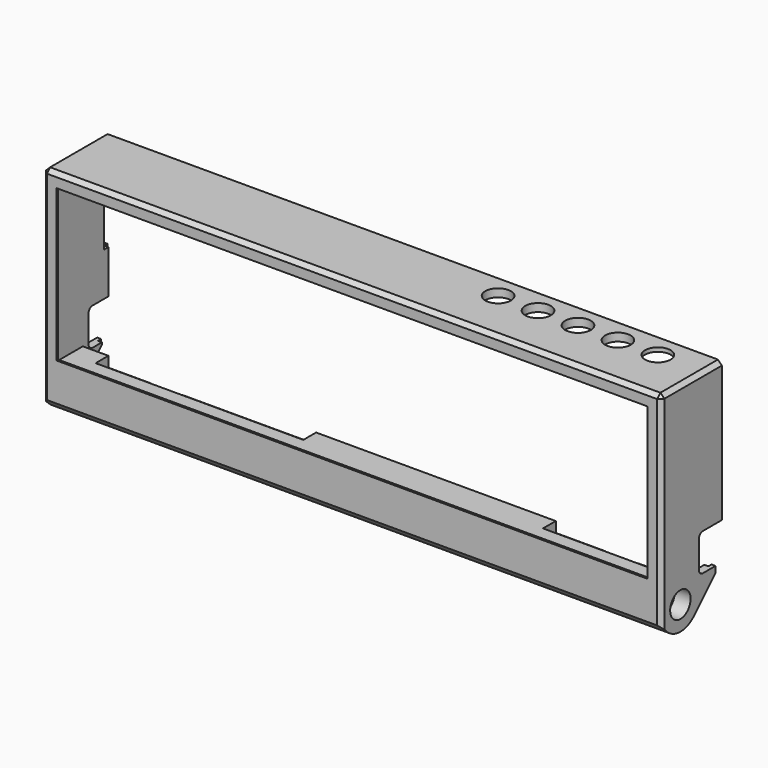
from build123d import *

# Parameters (mm, degrees)
PAD_DEPTH            = 77.4
SKETCH002_W          = 40
SKETCH002_H          = 150
POCKET_DEPTH         = 18.501
SKETCH005_W          = 38
SKETCH005_H          = 148
POCKET003_DEPTH      = 0.501
SKETCH021_W          = 40.8
SKETCH021_H          = 150.8
POCKET018_DEPTH      = 18.501
SKETCH003_W          = 4
SKETCH003_H          = 8
SKETCH003_H_2        = 10
SKETCH003_H_3        = 36
SKETCH003_W_2        = 1.4
POCKET001_DEPTH      = 13.001
CHAMFER_1_SIZE2      = 1
CHAMFER_1_SIZE       = 2
CHAMFER_2_SIZE2      = 1
CHAMFER_2_SIZE       = 2
CHAMFER_3_SIZE2      = 1
CHAMFER_3_SIZE       = 2
CHAMFER_4_SIZE2      = 1
CHAMFER_4_SIZE       = 2
SKETCH004_W          = 4.8
SKETCH004_H          = 150
POCKET002_DEPTH      = 9.001
SKETCH022_W          = 5.2
SKETCH022_H          = 150.8
POCKET019_DEPTH      = 9.001
POCKET009_DEPTH      = 8
SKETCH013_R          = 1.7
POCKET010_DEPTH      = 40
SKETCH014_R          = 3.2
POCKET011_DEPTH      = 4
SKETCH006_W          = 1
SKETCH006_H          = 16
POCKET004_DEPTH      = 17.1
SKETCH020_W          = 5
SKETCH020_H          = 3
POCKET017_DEPTH      = 0.2
POCKET005_DEPTH      = 77.401
POCKET005_DEPTH_BACK = 77.401
SKETCH016_W          = 5
SKETCH016_H          = 12
POCKET012_DEPTH      = 10
SKETCH008_W          = 40
SKETCH008_H          = 152.8
POCKET006_DEPTH      = 1.001
SKETCH023_W          = 30
SKETCH023_H          = 170
POCKET020_DEPTH      = 2
POCKET007_DEPTH      = 76.4
SKETCH010_R          = 3.2
POCKET008_DEPTH      = 2.401
CHAMFER001_SIZE      = 1
CHAMFER002_SIZE      = 0.5


with BuildPart() as part:
    # Sketch001 → Pad (new body, symmetric)
    with BuildSketch(Plane.YZ):
        with BuildLine():
            Line((19, -1.485281), (19, 42.4))
            Line((0, 42.4), (19, 42.4))
            Line((0, 42.4), (0, 0))
            Line((0, 0), (0, -8.485281))
            Line((0, -8.485281), (1.757359, -10.242641))
            ThreePointArc((1.757359, -10.242641), (6, -12), (10.242641, -10.242641))
            Line((10.242641, -10.242641), (19, -1.485281))
        make_face()
    extrude(amount=PAD_DEPTH, both=True)

    # Sketch002 (on Face3 of Pad) → Pocket (cut, through all)
    with BuildSketch(Plane(origin=(0, 0.5, 0), x_dir=(0, 0, -1), z_dir=(0, -1, 0))):
        with Locations((-20, 0)):
            Rectangle(SKETCH002_W, SKETCH002_H)
    extrude(amount=-POCKET_DEPTH, mode=Mode.SUBTRACT)

    # Sketch005 (on Face14 of Pocket) → Pocket003 (cut, through all)
    with BuildSketch(Plane.ZX.offset(0.5)):
        with Locations((20, 0)):
            Rectangle(SKETCH005_W, SKETCH005_H)
    extrude(amount=-POCKET003_DEPTH, mode=Mode.SUBTRACT)

    # Sketch021 (on Face14 of Pocket) → Pocket018 (cut, through all)
    with BuildSketch(Plane.ZX.offset(0.5)):
        with Locations((20, 0)):
            Rectangle(SKETCH021_W, SKETCH021_H)
    extrude(amount=POCKET018_DEPTH, mode=Mode.SUBTRACT)

    # Sketch003 (on Face3 of Pad) → Pocket001 (cut, through all)
    with BuildSketch(Plane(origin=(0, 6, 0), x_dir=(0, 0, -1), z_dir=(0, -1, 0))):
        with Locations((2, 65)):
            Rectangle(SKETCH003_W, SKETCH003_H)
        with Locations((2, 48)):
            Rectangle(SKETCH003_W, SKETCH003_H_2)
        with Locations((2, -35)):
            Rectangle(SKETCH003_W, SKETCH003_H_3)
        with Locations((2, -65)):
            Rectangle(SKETCH003_W, SKETCH003_H)
        with Locations((-40.7, 65)):
            Rectangle(SKETCH003_W_2, SKETCH003_H)
        with Locations((-40.7, -65)):
            Rectangle(SKETCH003_W_2, SKETCH003_H)
    extrude(amount=-POCKET001_DEPTH, mode=Mode.SUBTRACT)

    # Chamfer 1
    chamfer_1_edges = [part.edges().sort_by_distance(p)[0] for p in [
        (65, 6, -4),
    ]]
    chamfer_1_side = part.faces().sort_by_distance((65, 11.242641, -4))[0]
    chamfer(chamfer_1_edges, length=CHAMFER_1_SIZE, length2=CHAMFER_1_SIZE2, reference=chamfer_1_side)

    # Chamfer 2
    chamfer_2_edges = [part.edges().sort_by_distance(p)[0] for p in [
        (48, 6, -4),
    ]]
    chamfer_2_side = part.faces().sort_by_distance((48, 11.242641, -4))[0]
    chamfer(chamfer_2_edges, length=CHAMFER_2_SIZE, length2=CHAMFER_2_SIZE2, reference=chamfer_2_side)

    # Chamfer 3
    chamfer_3_edges = [part.edges().sort_by_distance(p)[0] for p in [
        (-35, 6, -4),
    ]]
    chamfer_3_side = part.faces().sort_by_distance((-35, 11.242641, -4))[0]
    chamfer(chamfer_3_edges, length=CHAMFER_3_SIZE, length2=CHAMFER_3_SIZE2, reference=chamfer_3_side)

    # Chamfer 4
    chamfer_4_edges = [part.edges().sort_by_distance(p)[0] for p in [
        (-65, 6, -4),
    ]]
    chamfer_4_side = part.faces().sort_by_distance((-65, 11.242641, -4))[0]
    chamfer(chamfer_4_edges, length=CHAMFER_4_SIZE, length2=CHAMFER_4_SIZE2, reference=chamfer_4_side)

    # Sketch004 (on Face3 of Pad) → Pocket002 (cut, through all)
    with BuildSketch(Plane(origin=(0, 10, 0), x_dir=(0, 0, -1), z_dir=(0, -1, 0))):
        with Locations((2.4, 0)):
            Rectangle(SKETCH004_W, SKETCH004_H)
    extrude(amount=-POCKET002_DEPTH, mode=Mode.SUBTRACT)

    # Sketch022 (on Face4 of Pocket002) → Pocket019 (cut, through all)
    with BuildSketch(Plane.ZX.offset(10)):
        with Locations((-2.6, 0)):
            Rectangle(SKETCH022_W, SKETCH022_H)
    extrude(amount=POCKET019_DEPTH, mode=Mode.SUBTRACT)

    # Sketch011 (on Face33 of Pocket001) → Pocket009 (cut)
    with BuildSketch(Plane.YZ.offset(61)):
        with BuildLine():
            ThreePointArc((6, -1), (1, -6), (6, -11))
            Line((6, -11), (7.8, -11))
            Line((7.8, -11), (8.8, -12))
            Line((8.8, -12), (21, -12))
            Line((21, 4), (21, -12))
            Line((6, 4), (21, 4))
            Line((6, -1), (6, 4))
        make_face()
    pocket009 = extrude(amount=-POCKET009_DEPTH, mode=Mode.SUBTRACT)

    # Sketch013 (on Face9 of Pad) → Pocket010 (cut)
    with BuildSketch(Plane.YZ.offset(77.4)):
        with Locations((6, -6)):
            Circle(SKETCH013_R)
    pocket010 = extrude(amount=-POCKET010_DEPTH, mode=Mode.SUBTRACT)

    # Sketch014 (on Face9 of Pad) → Pocket011 (cut)
    with BuildSketch(Plane.YZ.offset(77.4)):
        with Locations((6, -6)):
            Circle(SKETCH014_R)
    pocket011 = extrude(amount=-POCKET011_DEPTH, mode=Mode.SUBTRACT)

    # Mirrored: Pocket011, Pocket010, Pocket009 across YZ
    add(pocket011.mirror(Plane.YZ), mode=Mode.SUBTRACT)
    add(pocket010.mirror(Plane.YZ), mode=Mode.SUBTRACT)
    add(pocket009.mirror(Plane.YZ), mode=Mode.SUBTRACT)

    # Sketch006 (on Face14 of Pocket) → Pocket004 (cut)
    with BuildSketch(Plane.ZX.offset(0.9)):
        with Locations((40.9, -31)):
            Rectangle(SKETCH006_W, SKETCH006_H)
    extrude(amount=POCKET004_DEPTH, mode=Mode.SUBTRACT)

    # Sketch020 (on Face82 of Pocket004) → Pocket017 (cut)
    with BuildSketch(Plane.YX.offset(-41.4)):
        with Locations((3.4, -31)):
            Rectangle(SKETCH020_W, SKETCH020_H)
    extrude(amount=-POCKET017_DEPTH, mode=Mode.SUBTRACT)

    # Sketch007 → Pocket005 (cut, two sides)
    with BuildSketch(Plane.YZ) as pocket005_sk:
        with BuildLine():
            Line((13, 7.35), (21.8, 7.35))
            Line((21.8, 7.35), (21.8, -1.95))
            Line((21.8, -1.95), (13, -1.95))
            ThreePointArc((11.8, -0.75), (12.151472, -1.598528), (13, -1.95))
            Line((11.8, 6.15), (11.8, -0.75))
            ThreePointArc((13, 7.35), (12.151472, 6.998528), (11.8, 6.15))
        make_face()
    extrude(amount=-POCKET005_DEPTH, mode=Mode.SUBTRACT)
    extrude(pocket005_sk.sketch, amount=POCKET005_DEPTH_BACK, mode=Mode.SUBTRACT)

    # Sketch016 (on Face8 of Pad) → Pocket012 (cut)
    with BuildSketch(Plane(origin=(-77.4, 0, 0), x_dir=(0, 1, 0), z_dir=(-1, 0, 0))):
        with Locations((19.1, -24.2)):
            Rectangle(SKETCH016_W, SKETCH016_H)
    extrude(amount=-POCKET012_DEPTH, mode=Mode.SUBTRACT)

    # Sketch008 (on Face1 of Pad) → Pocket006 (cut, through all)
    with BuildSketch(Plane.ZX.offset(18)):
        with Locations((21.4, 0)):
            Rectangle(SKETCH008_W, SKETCH008_H)
    extrude(amount=POCKET006_DEPTH, mode=Mode.SUBTRACT)

    # Sketch023 (on Face1 of Pad) → Pocket020 (cut)
    with BuildSketch(Plane.ZX.offset(19)):
        with Locations((-15, 0)):
            Rectangle(SKETCH023_W, SKETCH023_H)
    extrude(amount=-POCKET020_DEPTH, mode=Mode.SUBTRACT)

    # Sketch009 → Pocket007 (cut, symmetric)
    with BuildSketch(Plane.YZ):
        Polygon((13.285281, -6.2), (23.285281, -6.2), (23.285281, 6.8), (16, -0.485281), (16, -2.485281), (13.285281, -5.2), align=None)
    extrude(amount=POCKET007_DEPTH, both=True, mode=Mode.SUBTRACT)

    # Sketch010 (on Face7 of Pocket) → Pocket008 (cut, through all)
    with BuildSketch(Plane.YX.offset(-40)):
        with Locations((13.2, 66)):
            Circle(SKETCH010_R)
        with Locations((13.2, 56)):
            Circle(SKETCH010_R)
        with Locations((13.2, 46)):
            Circle(SKETCH010_R)
        with Locations((13.2, 36)):
            Circle(SKETCH010_R)
        with Locations((13.2, 26)):
            Circle(SKETCH010_R)
    extrude(amount=-POCKET008_DEPTH, mode=Mode.SUBTRACT)

    # Chamfer001
    chamfer001_edges = [part.edges().sort_by_distance(p)[0] for p in [
        (77.4, 0, 21.2),
        (77.4, 9.5, 42.4),
        (-77.4, 0, 21.2),
        (-77.4, 9.5, 42.4),
        (0, 0, 42.4),
    ]]
    chamfer(chamfer001_edges, length=CHAMFER001_SIZE)

    # Chamfer002
    chamfer002_edges = [part.edges().sort_by_distance(p)[0] for p in [
        (-76.4, 18.5, 41.4),
        (76.4, 18.5, 41.4),
    ]]
    chamfer(chamfer002_edges, length=CHAMFER002_SIZE)


solid = part.part
